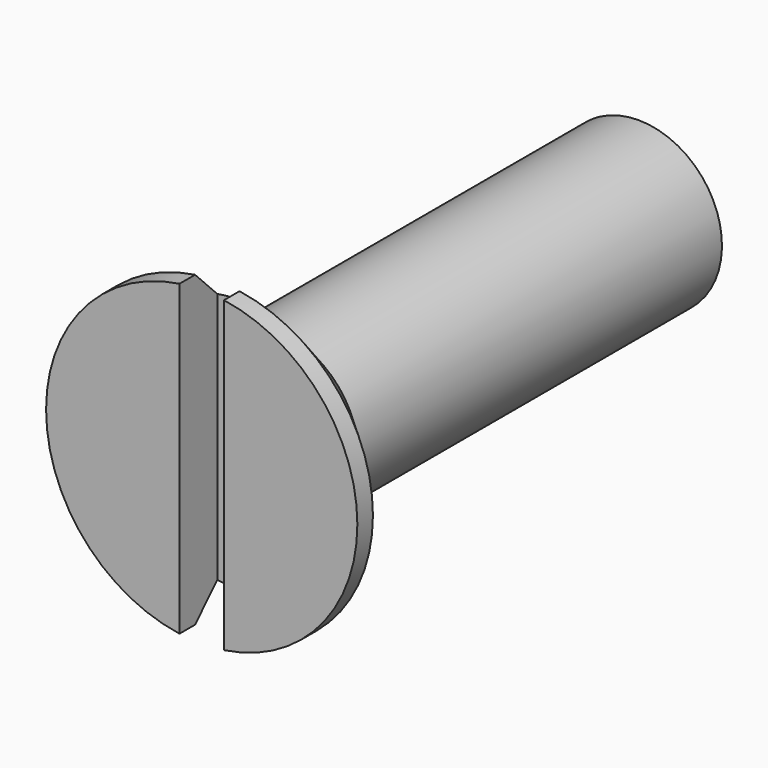
from build123d import *

# Parameters (mm, degrees)
SKETCH001_W  = 5.6
SKETCH001_H  = 0.8
POCKET_DEPTH = 0.85


with BuildPart() as part:
    # Sketch → Revolution (revolve)
    with BuildSketch(Plane.YZ):
        Polygon((0, 0), (0, 2.8), (0.35, 2.8), (1.65, 1.5), (9.823908, 1.5), (10, 1.195), (10, 0), align=None)
    revolve(axis=Axis((0, 0, 0), (0, 1, 0)))

    # Sketch001 → Pocket (cut)
    with BuildSketch(Plane(origin=(0, 0, 0), x_dir=(0, 0, -1), z_dir=(0, -1, 0))):
        Rectangle(SKETCH001_W, SKETCH001_H)
    extrude(amount=-POCKET_DEPTH, mode=Mode.SUBTRACT)


solid = part.part
